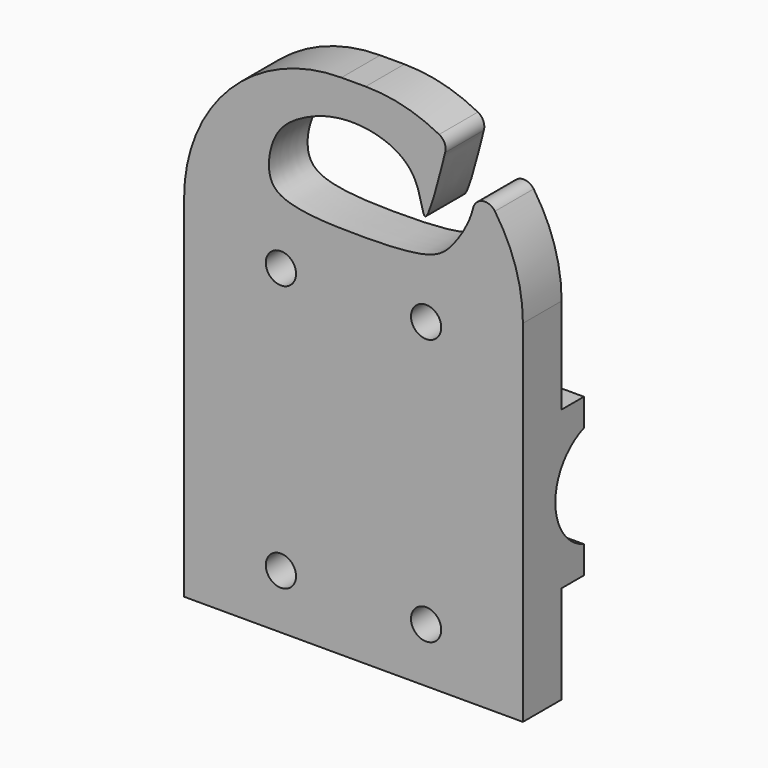
from build123d import *

# Parameters (mm, degrees)
F0_W      = 28
F0_H      = 42
F1_DEPTH  = 4
F2_W      = 2
F2_H      = 13
F3_DEPTH  = 2.3
F5_DEPTH  = 28
F7_R      = 7.7
F8_DEPTH  = 24
F10_D     = 2.5
F11_R     = 13
F13_DEPTH = 25
F14_R     = 1


with BuildPart() as f1:
    # F0 (on Front) → F1 (new body)
    with BuildSketch(Plane.XZ):
        with Locations((14, 21)):
            Rectangle(F0_W, F0_H)
    extrude(amount=F1_DEPTH)

    # F2 (on face) → F3 (join)
    with BuildSketch(Plane(origin=(0, 0, 0), x_dir=(-1, 0, 0), z_dir=(0, 1, 0))):
        with Locations((-27, 14.6)):
            Rectangle(F2_W, F2_H)
        with Locations((-1, 14.6)):
            Rectangle(F2_W, F2_H)
    extrude(amount=F3_DEPTH)

    # F4 (on face) → F5 (cut, through all)
    with BuildSketch(Plane.YZ.offset(28)):
        with BuildLine():
            Line((2.3, 10.3753698387), (2.3, 18.8246301613))
            ThreePointArc((2.3, 18.8246301613), (-0.65, 14.6), (2.3, 10.3753698387))
        make_face()
        with BuildLine():
            ThreePointArc((2.3, 10.3753698387), (6.4263346056, 10.9104878371), (8.35, 14.6))
            ThreePointArc((8.35, 14.6), (6.4263346056, 18.2895121629), (2.3, 18.8246301613))
            Line((2.3, 18.8246301613), (2.3, 10.3753698387))
        make_face()
    extrude(amount=-F5_DEPTH, mode=Mode.SUBTRACT)

    # F7 (on offset) → F8 (cut)
    with BuildSketch(Plane.YZ.offset(26)):
        with Locations((3.85, 14.6)):
            Circle(F7_R)
    extrude(amount=-F8_DEPTH, mode=Mode.SUBTRACT)

    # F10 (through all)
    with Locations(Plane.XZ.offset(4)):
        with Locations((8, 26.5), (20, 26.5), (20, 4.5), (8, 4.5)):
            Hole(F10_D / 2)

    # F11
    f11_edges = [f1.edges().sort_by_distance(p)[0] for p in [
        (28, -2, 42),
        (0, -2, 42),
    ]]
    fillet(f11_edges, radius=F11_R)

    # F12 (on face) → F13 (cut)
    with BuildSketch(Plane(origin=(0, 0, 0), x_dir=(-1, 0, 0), z_dir=(0, 1, 0))):
        with BuildLine():
            add(Edge.make_bspline(
                [(-24.370105736, 38.6820794177), (-24.0594528348, 36.3615961873), (-23.5705139755, 34.8193138181), (-22.4656301421, 33.1282870019), (-21.4076860246, 31.8771595646), (-19.3960082415, 31.0962351705), (-14.1024829639, 30.9095755715), (-7.8400623253, 31.1924039681), (-6.7542875349, 33.3453807501), (-7.4137958253, 36.4366142616), (-9.801594871, 38.2433632718), (-13.9311231838, 39.5914590836), (-19.599465229, 37.8934474257), (-19.7175576882, 31.8255512809), (-21.7200335624, 39.9497444349), (-21.3871951162, 38.6820794177), (-21.8541813685, 40.316131001)],
                knots=[0, 0, 0, 0, 0.0817303714, 0.1339555018, 0.1833039328, 0.2389999307, 0.3328353336, 0.430514054, 0.4852406933, 0.5525903029, 0.6196229305, 0.7022826841, 0.7955881718, 0.8615792299, 0.9481551952, 1, 1, 1, 1], degree=3))
            ThreePointArc((-21.8541813685, 40.316131001), (-23.1594375967, 39.5719231302), (-24.370105736, 38.6820794177))
        make_face()
    extrude(amount=-F13_DEPTH, mode=Mode.SUBTRACT)

    # F14
    f14_edges = [f1.edges().sort_by_distance(p)[0] for p in [
        (24.287623, -2, 38.096156),
        (21.788546, -2, 40.086733),
    ]]
    fillet(f14_edges, radius=F14_R)


solid = f1.part
